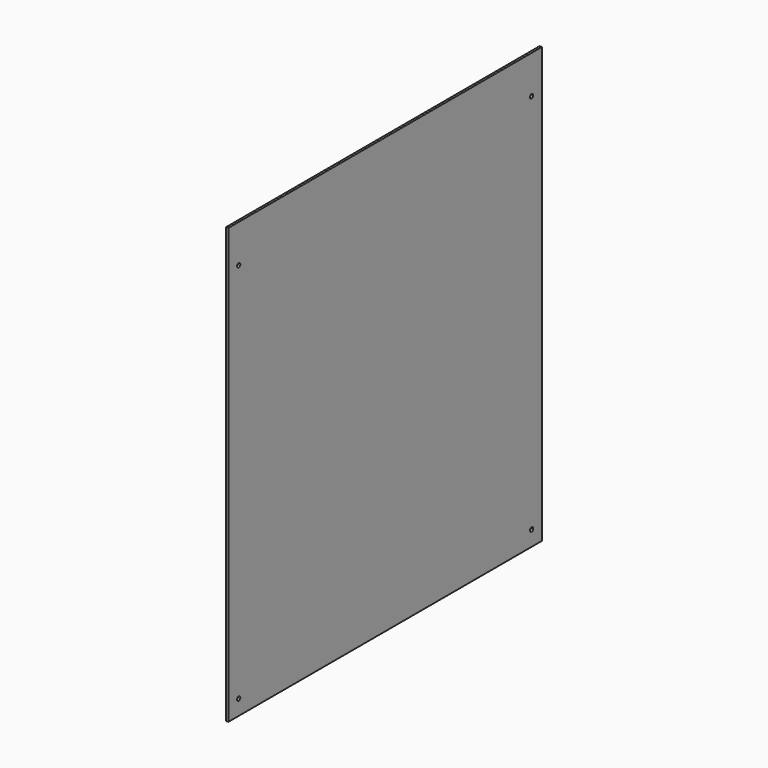
from build123d import *

# Parameters (mm, degrees)
F0_W     = 500
F0_H     = 40
F0_R     = 2.65
F1_DEPTH = 3


with BuildPart() as f1:
    # F0 (on Right) → F1 (new body)
    with BuildSketch(Plane.YZ):
        with Locations((0, 280)):
            Rectangle(F0_W, F0_H)
        Polygon((250, 260), (-250, 260), (-250, 300), (-257, 300), (-257, -260), (-257, -270), (257, -270), (257, -260), (257, 300), (250, 300), align=None)
        with Locations((-240, -250)):
            Circle(F0_R, mode=Mode.SUBTRACT)
        with Locations((240, -250)):
            Circle(F0_R, mode=Mode.SUBTRACT)
        with Locations((-240, 250)):
            Circle(F0_R, mode=Mode.SUBTRACT)
        with Locations((240, 250)):
            Circle(F0_R, mode=Mode.SUBTRACT)
    extrude(amount=F1_DEPTH)


solid = f1.part
